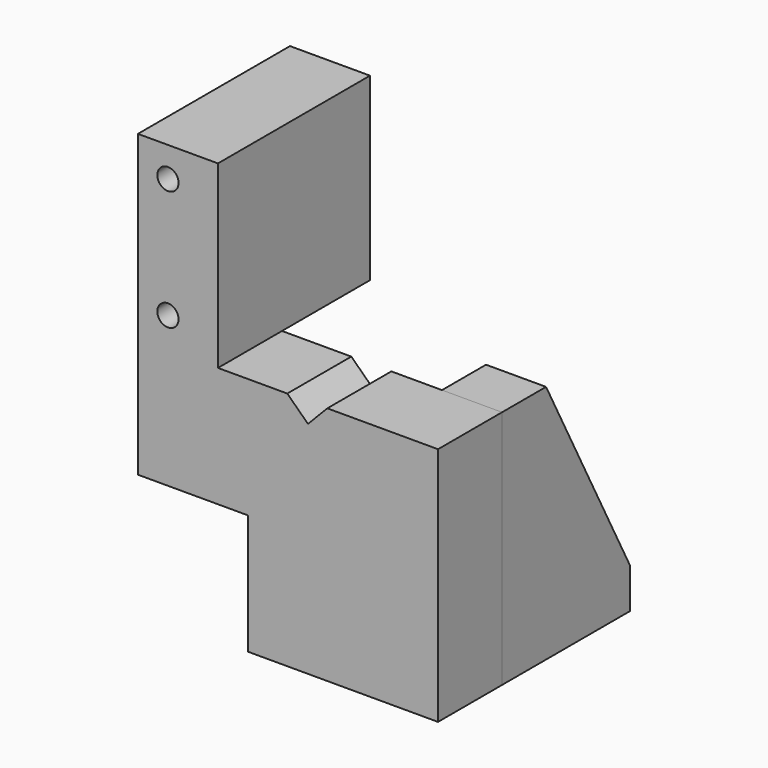
from build123d import *

# Parameters (mm, degrees)
F0_W      = 25.4
F0_H      = 57.15
F1_DEPTH  = 60.325
F3_D      = 6.7564
F5_D      = 6.7564
F6_W      = 95.25
F6_H      = 25.4
F7_DEPTH  = 76.2
F8_W      = 34.925
F8_H      = 38.1
F9_DEPTH  = 50.8
F11_DEPTH = 50.8
F13_DEPTH = 19.05


with BuildPart() as f1:
    # F0 (on Front) → F1 (new body)
    with BuildSketch(Plane.XZ):
        with Locations((3.175, 10.4564832059)):
            Rectangle(F0_W, F0_H)
    extrude(amount=F1_DEPTH)

    # F3 (through all)
    with Locations(Plane.XZ.offset(60.325)):
        with Locations((0, 29.5064832059)):
            Hole(F3_D / 2)

    # F5 (through all)
    with Locations(Plane.XZ.offset(60.325)):
        with Locations((0, -8.5935167941)):
            Hole(F5_D / 2)

    # F6 (on face) → F7 (join)
    with BuildSketch(Plane(origin=(0, 0, -18.1185167941), x_dir=(1, 0, 0), z_dir=(0, 0, -1))):
        with Locations((38.1, 47.625)):
            Rectangle(F6_W, F6_H)
    extrude(amount=F7_DEPTH)

    # F8 (on face) → F9 (cut)
    with BuildSketch(Plane.XZ.offset(60.325)):
        with Locations((7.9375, -75.2685167941)):
            Rectangle(F8_W, F8_H)
    extrude(amount=-F9_DEPTH, mode=Mode.SUBTRACT)

    # F10 (on face) → F11 (cut)
    with BuildSketch(Plane.XZ.offset(60.325)):
        Polygon((57.1193047827, -11.3636797151), (29.0353151171, -9.5661307718), (44.45, -24.4685167941), align=None)
    extrude(amount=-F11_DEPTH, mode=Mode.SUBTRACT)


with BuildPart() as f13:
    # F12 (on face) → F13 (new body)
    with BuildSketch(Plane.YZ.offset(85.725)):
        Polygon((-17.4625, -18.1185167941), (-34.925, -18.1185167941), (-34.925, -94.3185167941), (15.875, -94.3185167941), (15.875, -81.6185167941), align=None)
    extrude(amount=-F13_DEPTH)


solid = Compound([f1.part, f13.part])
